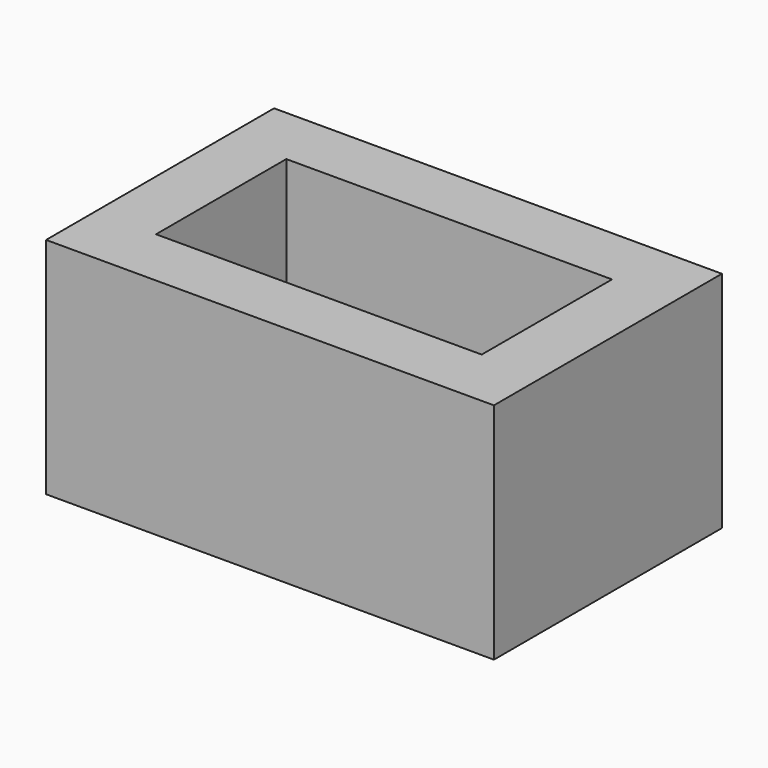
from build123d import *

# Parameters (mm, degrees)
F0_W     = 203.2
F0_H     = 101.6
F1_DEPTH = 139.7
F2_T     = 38.1


with BuildPart() as f1:
    # F0 (on Top) → F1 (new body)
    with BuildSketch(Plane.XY):
        Rectangle(F0_W, F0_H)
    extrude(amount=F1_DEPTH)

    # F2
    f2_openings = [f1.faces().sort_by_distance(p)[0] for p in [
        (0, 0, 139.7),
        (0, 0, 0),
    ]]
    offset(amount=F2_T, openings=f2_openings, kind=Kind.INTERSECTION)


solid = f1.part
